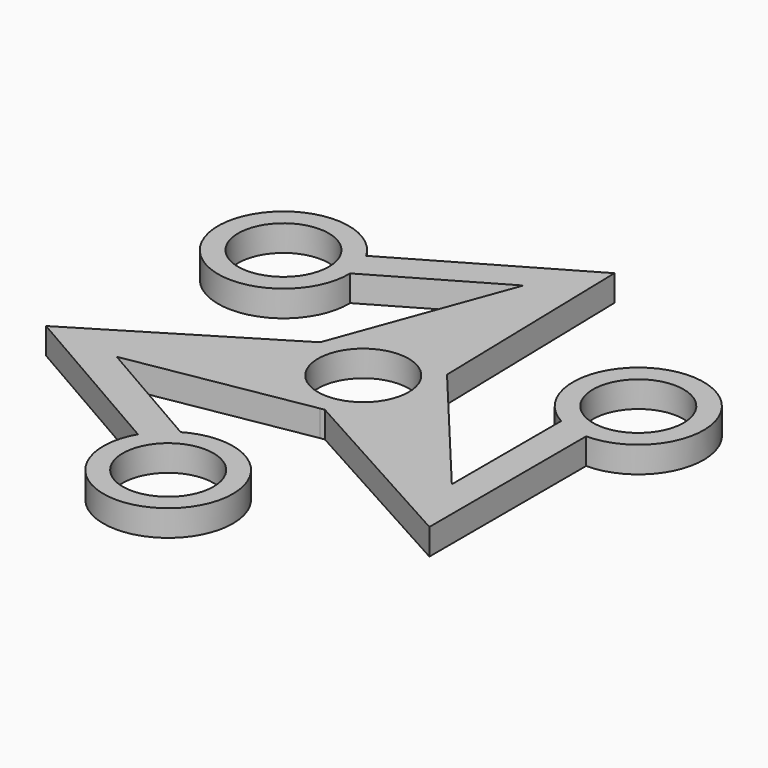
from build123d import *

# Parameters (mm, degrees)
F0_R     = 11.0109
F1_DEPTH = 6.35


with BuildPart() as f1:
    # F0 (on Top) → F1 (new body)
    with BuildSketch(Plane.XY):
        with BuildLine():
            Line((3.097345, -15.56148), (3.108548, -15.567677))
            ThreePointArc((3.108548, -15.567677), (12.275256, -10.066465), (15.875, 0))
            ThreePointArc((15.875, 0), (-11.933208, 10.469678), (2.065342, -15.740076))
            Line((2.065342, -15.740076), (3.097345, -15.56148))
        make_face()
        Circle(F0_R, mode=Mode.SUBTRACT)
        with BuildLine():
            Line((12.196759, 10.173779), (10.972992, 62.544731))
            Line((10.972992, 62.544731), (-30.250121, 38.697366))
            ThreePointArc((-30.250121, 38.697366), (-59.272067, 26.437226), (-28.121458, 31.151449))
            Line((-28.121458, 31.151449), (0.64422, 47.79225))
            Line((0.64422, 47.79225), (-14.899927, 5.502936))
            Line((-14.899927, 5.502936), (-59.65505, -21.753258))
            Line((-59.65505, -21.753258), (-18.264413, -45.60282))
            ThreePointArc((-18.264413, -45.60282), (6.493886, -64.572333), (-12.504154, -39.835917))
            Line((-12.504154, -39.835917), (-41.298349, -23.24451))
            Line((-41.298349, -23.24451), (2.065342, -15.740076))
            ThreePointArc((2.065342, -15.740076), (-11.933208, 10.469678), (15.875, 0))
            ThreePointArc((15.875, 0), (12.275256, -10.066465), (3.108548, -15.567677))
            Line((3.108548, -15.567677), (48.67883, -40.775256))
            Line((48.67883, -40.775256), (48.637955, 6.858558))
            ThreePointArc((48.637955, 6.858558), (52.541939, 38.099627), (41.019788, 8.799703))
            Line((41.019788, 8.799703), (41.048306, -24.432505))
            Line((41.048306, -24.432505), (12.196759, 10.173779))
        make_face()
        with Locations((-4.635212, -53.456056)):
            Circle(F0_R, mode=Mode.SUBTRACT)
        with Locations((-43.992355, 30.747553)):
            Circle(F0_R, mode=Mode.SUBTRACT)
        with Locations((48.624339, 22.724721)):
            Circle(F0_R, mode=Mode.SUBTRACT)
        with BuildLine():
            ThreePointArc((2.065342, -15.740076), (2.588381, -15.662564), (3.108548, -15.567677))
            Line((3.108548, -15.567677), (3.097345, -15.56148))
            Line((3.097345, -15.56148), (2.065342, -15.740076))
        make_face()
    extrude(amount=-F1_DEPTH)


solid = f1.part
